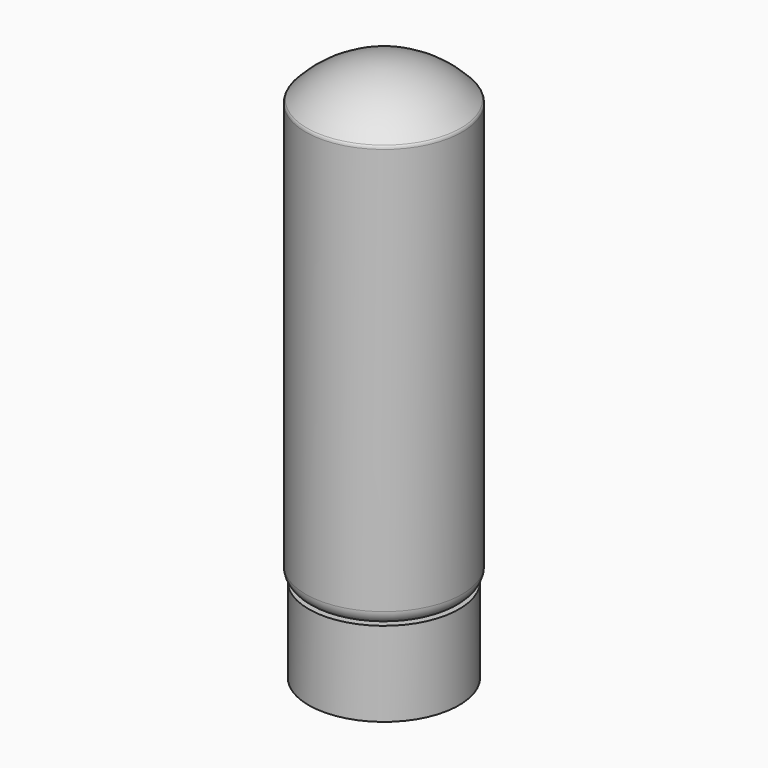
from build123d import *

# Parameters (mm, degrees)
F3_T = -0.5


with BuildPart() as f1:
    # F0 (on Front) → F1 (revolve)
    with BuildSketch(Plane.XZ):
        Polygon((-16, 0), (0, 0), (0, 18), (-13.65, 18), (-16, 18), align=None)
    revolve(axis=Axis((0, 0, 57.7242369889), (0, 0, -1)))


with BuildPart() as f2:
    # F0 (on Front) → F2 (revolve)
    with BuildSketch(Plane.XZ):
        with BuildLine():
            Line((-13.65, 18), (0, 18))
            Line((0, 18), (0, 115.4484739778))
            ThreePointArc((0, 115.4484739778), (-8.9480293889, 113.5706246603), (-16.3862007382, 108.2539381938))
            ThreePointArc((-16.3862007382, 108.2539381938), (-16.5817190398, 107.9403548489), (-16.65, 107.5771749611))
            Line((-16.65, 107.5771749611), (-16.65, 21))
            ThreePointArc((-16.65, 21), (-15.7713203436, 18.8786796564), (-13.65, 18))
        make_face()
    revolve(axis=Axis((0, 0, 57.7242369889), (0, 0, -1)))

    # F3 (hollow: no face is removed)
    offset(amount=F3_T, mode=Mode.SUBTRACT)


solid = Compound([f1.part, f2.part])
